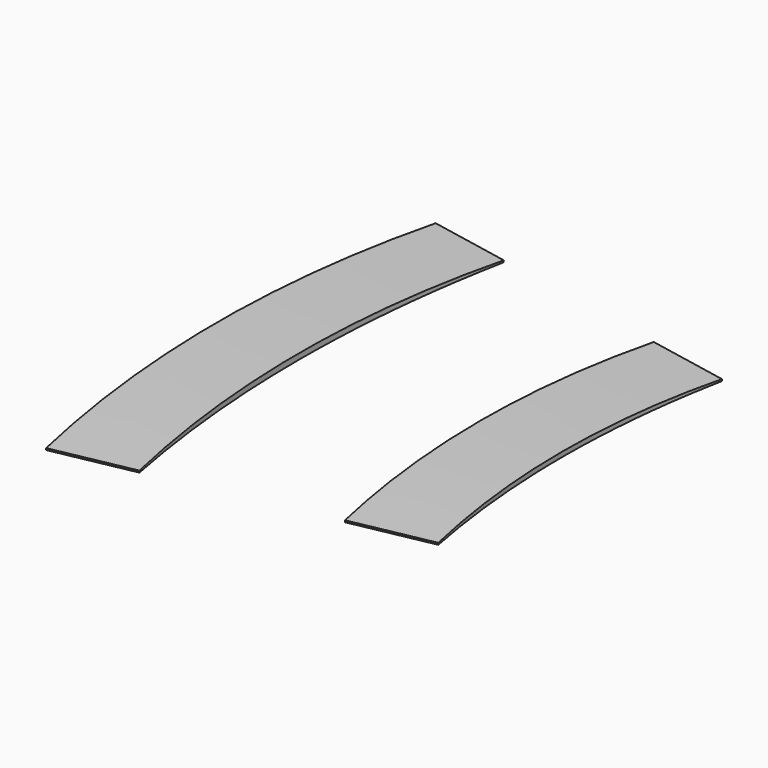
from build123d import *

# Parameters (mm, degrees)
F1_ANGLE = 22.4375
F2_W     = 211.533882
F2_H     = 21.666825
F3_DEPTH = 136.2
F5_ANGLE = 30


with BuildPart() as f1:
    # F0 (on Front) → F1 (revolve, symmetric)
    with BuildSketch(Plane.XZ) as f1_sk:
        Polygon((0.276137, 9.711448), (0.249999, 1.911491), (155.749126, 1.390407), (155.775264, 9.190363), align=None)
    revolve(axis=Axis((561.899187, 0, -48.766032), (-0.176947, 0, -0.98422)), revolution_arc=F1_ANGLE / 2)
    revolve(f1_sk.sketch, axis=Axis((561.899187, 0, -48.766032), (0.176947, 0, 0.98422)), revolution_arc=F1_ANGLE / 2)

    # F2 (on Front) → F3 (cut, symmetric)
    with BuildSketch(Plane.XZ):
        with Locations((81.260701, -3.833412)):
            Rectangle(F2_W, F2_H)
    extrude(amount=F3_DEPTH, both=True, mode=Mode.SUBTRACT)

    # F4 (on Front) → F5 (revolve, symmetric, cut)
    with BuildSketch(Plane.XZ) as f5_sk:
        Polygon((2.702681, 7.218331), (1.702681, 2.712325), (4.487591, 2.712325), (4.502671, 7.212299), align=None)
        Polygon((151.487591, 2.189562), (154.302681, 2.189562), (153.302681, 6.689562), (151.502691, 6.695594), align=None)
        Polygon((40.792948, 17.466315), (37.287007, 15.699354), (37.25, 4.655788), (40.75002, 4.655788), align=None)
        Polygon((118.805241, 20.018731), (115.304604, 19.83427), (115.25002, 3.545632), (118.749562, 3.403073), align=None)
        Polygon((115.304604, 19.83427), (40.792948, 17.466315), (40.75002, 4.655788), (115.25002, 3.545632), align=None)
    revolve(axis=Axis((561.899187, 0, -48.766032), (-0.176947, 0, -0.98422)), revolution_arc=F5_ANGLE / 2, mode=Mode.SUBTRACT)
    revolve(f5_sk.sketch, axis=Axis((561.899187, 0, -48.766032), (0.176947, 0, 0.98422)), revolution_arc=F5_ANGLE / 2, mode=Mode.SUBTRACT)


solid = f1.part
